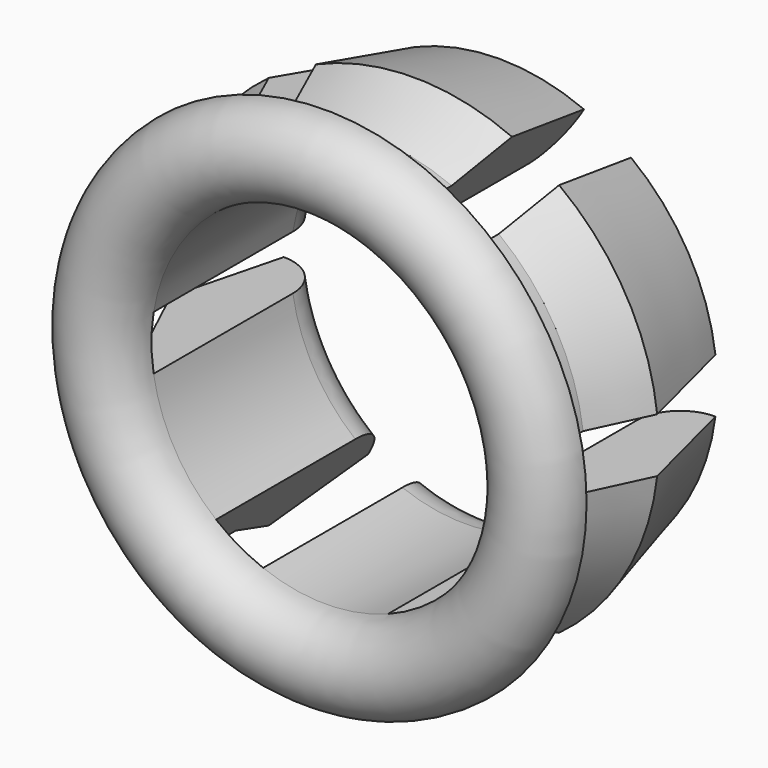
from build123d import *

# Parameters (mm, degrees)
F3_DEPTH = 6.351


with BuildPart() as f1:
    # F0 (on Top) → F1 (revolve)
    with BuildSketch(Plane.XY):
        with BuildLine():
            Line((7.62, 0), (6.35, 0))
            Line((6.35, 0), (6.35, 1.524))
            Line((6.35, 1.524), (7.14375, 3.226202))
            Line((7.14375, 3.226202), (6.35, 6.35))
            ThreePointArc((6.35, 6.35), (5.451974, 5.978026), (5.08, 5.08))
            Line((5.08, 5.08), (5.08, 0))
            ThreePointArc((5.08, 0), (6.35, -1.27), (7.62, 0))
        make_face()
    revolve(axis=Axis((0, 3.175, 0), (0, 1, 0)))

    # F2 (on Front) → F3 (cut, through all)
    with BuildSketch(Plane.XZ):
        Polygon((-1.374815, 0.79375), (-0.458272, 0.79375), (0, 1.5875), (-5.662592, 11.395398), (-7.037408, 10.601648), align=None)
        Polygon((0, 1.5875), (0.458272, 0.79375), (1.374815, 0.79375), (7.037408, 10.601648), (5.662592, 11.395398), align=None)
        Polygon((-0.916544, 0), (-1.374815, 0.79375), (-12.7, 0.79375), (-12.7, -0.79375), (-1.374815, -0.79375), align=None)
        Polygon((12.7, 0.79375), (1.374815, 0.79375), (0.916544, 0), (1.374815, -0.79375), (12.7, -0.79375), align=None)
        Polygon((0, -1.5875), (-0.458272, -0.79375), (-1.374815, -0.79375), (-7.037408, -10.601648), (-5.662592, -11.395398), align=None)
        Polygon((1.374815, -0.79375), (0.458272, -0.79375), (0, -1.5875), (5.662592, -11.395398), (7.037408, -10.601648), align=None)
    extrude(amount=-F3_DEPTH, mode=Mode.SUBTRACT)


solid = f1.part
